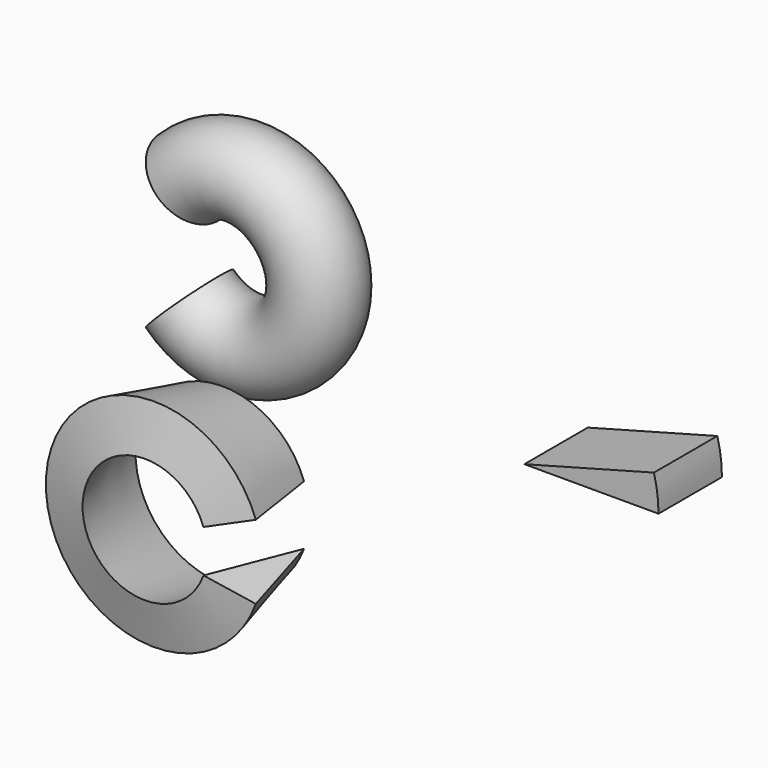
from build123d import *

# Parameters (mm, degrees)
F0_W          = 36.5379918367
F0_H          = 21.5906333178
F1_ANGLE      = 15
F0_R          = 11.1797222355
F2_ANGLE_BACK = 135
F2_ANGLE      = 270
F3_ANGLE_BACK = 160
F3_ANGLE      = 320


with BuildPart() as f1:
    # F0 (on Top) → F1 (revolve)
    with BuildSketch(Plane.XY):
        with Locations((41.5204456076, 26.3654785231)):
            Rectangle(F0_W, F0_H)
    revolve(axis=Axis((23.2514496893, 26.3654785231, 0), (0, -1, 0)), revolution_arc=F1_ANGLE)


with BuildPart() as f2:
    # F0 (on Top) → F2 (revolve)
    with BuildSketch(Plane.XY, mode=Mode.PRIVATE) as f2_sk:
        with Locations((-62.280677259, 52.5233596563)):
            Circle(F0_R)
    revolve(f2_sk.sketch.rotate(Axis((-82.9103291035, 50.9820729494, 0), (0, -1, 0)), -F2_ANGLE_BACK), axis=Axis((-82.9103291035, 50.9820729494, 0), (0, -1, 0)), revolution_arc=F2_ANGLE)


with BuildPart() as f3:
    # F0 (on Top) → F3 (revolve)
    with BuildSketch(Plane.XY, mode=Mode.PRIVATE) as f3_sk:
        Polygon((-37.9269696142, -58.3638457864), (-44.6190871298, -31.9861508906), (-50.4319518805, -55.2375987172), align=None)
    revolve(f3_sk.sketch.rotate(Axis((-20.9524314851, -46.1031068116, 0), (0, -1, 0)), -F3_ANGLE_BACK), axis=Axis((-20.9524314851, -46.1031068116, 0), (0, -1, 0)), revolution_arc=F3_ANGLE)


solid = Compound([f1.part, f2.part, f3.part])
